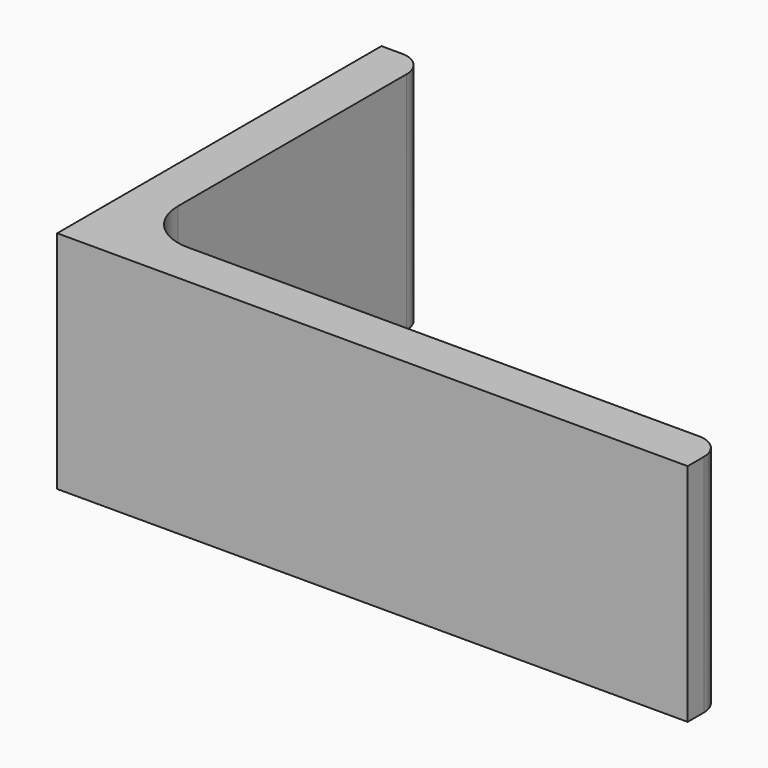
from build123d import *

# Parameters (mm, degrees)
EXTRUDE_DEPTH = 50


with BuildPart() as part:
    # Sketch → Extrude (new body)
    with BuildSketch(Plane.XY):
        with BuildLine():
            Line((0, 0), (140, 0))
            Line((140, 0), (140, 4.5))
            ThreePointArc((140, 4.5), (138.389087, 8.389087), (134.5, 10))
            Line((134.5, 10), (21, 10))
            ThreePointArc((10, 21), (13.221825, 13.221825), (21, 10))
            Line((10, 84.5), (10, 21))
            ThreePointArc((10, 84.5), (8.389087, 88.389087), (4.5, 90))
            Line((0, 90), (4.5, 90))
            Line((0, 0), (0, 90))
        make_face()
    extrude(amount=EXTRUDE_DEPTH)


solid = part.part
